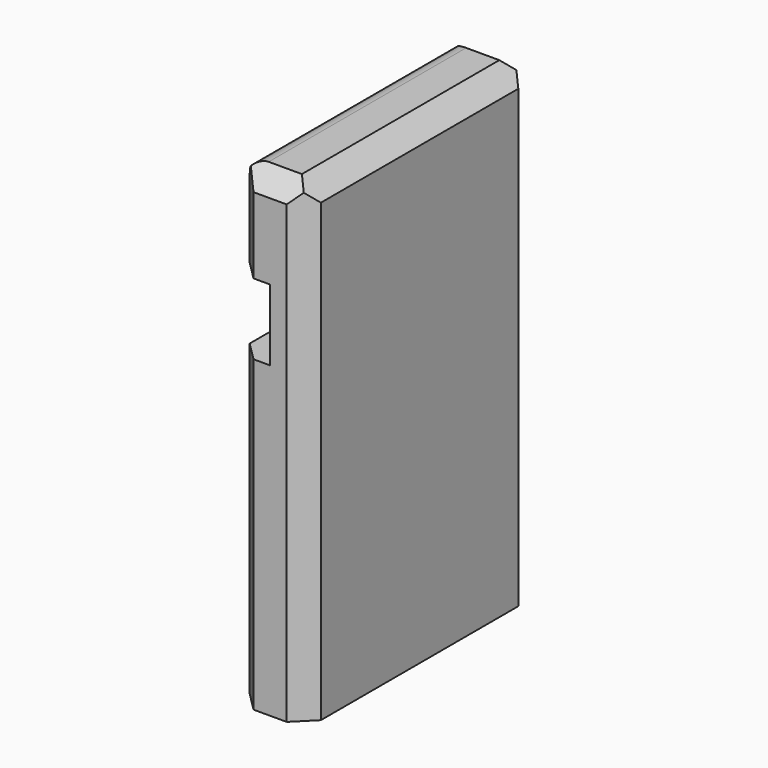
from build123d import *

# Parameters (mm, degrees)
F1_DEPTH = 76.2
F2_SIZE  = 5.08
F3_SIZE  = 5.08
F4_R     = 5.08
F5_SIZE  = 5.08


with BuildPart() as f1:
    # F0 (on Front) → F1 (new body)
    with BuildSketch(Plane.XZ):
        Polygon((29.771948, -17.903628), (29.771948, 109.096372), (10.721948, 109.096372), (10.721948, 83.696372), (20.246948, 83.696372), (20.246948, 64.646372), (10.721948, 64.646372), (10.721948, -17.903628), align=None)
    extrude(amount=F1_DEPTH)

    # F2
    f2_edges = [f1.edges().sort_by_distance(p)[0] for p in [
        (29.771948, -38.1, 109.096372),
    ]]
    chamfer(f2_edges, length=F2_SIZE)

    # F3
    f3_edges = [f1.edges().sort_by_distance(p)[0] for p in [
        (17.706948, -76.2, 109.096372),
        (17.706948, 0, 109.096372),
    ]]
    chamfer(f3_edges, length=F3_SIZE)

    # F4
    f4_edges = [f1.edges().sort_by_distance(p)[0] for p in [
        (10.721948, -38.1, 109.096372),
    ]]
    fillet(f4_edges, radius=F4_R)

    # F5
    f5_edges = [f1.edges().sort_by_distance(p)[0] for p in [
        (10.721948, -76.2, 93.856372),
        (29.771948, -76.2, 43.056372),
        (10.721948, -76.2, 23.371372),
        (29.771948, 0, 43.056372),
        (10.721948, 0, 93.856372),
        (10.721948, 0, 23.371372),
    ]]
    chamfer(f5_edges, length=F5_SIZE)


solid = f1.part
